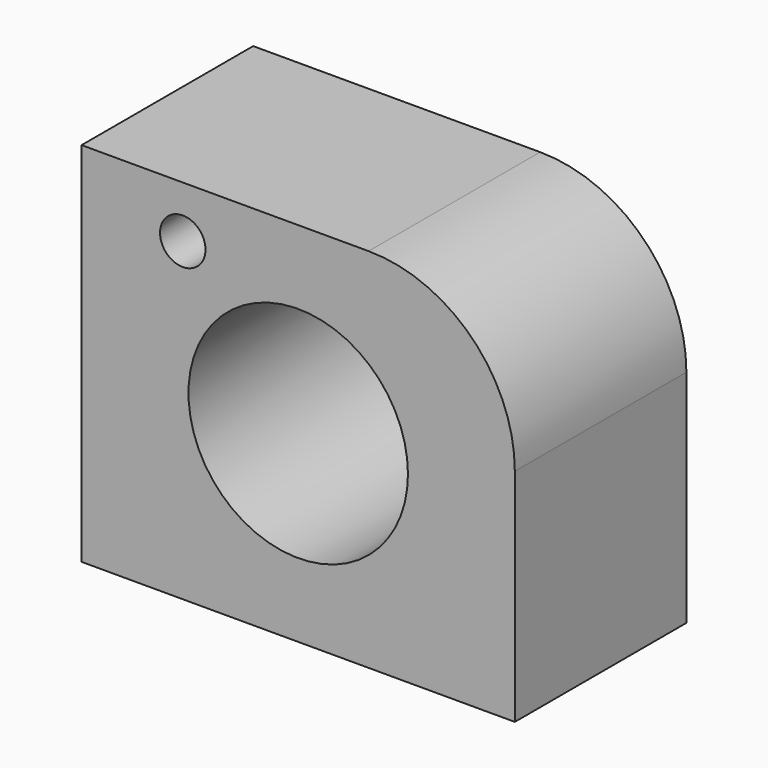
from build123d import *

# Parameters (mm, degrees)
F0_W     = 88.888892
F0_H     = 75.277782
F1_DEPTH = 44
F2_R     = 22.514909
F3_DEPTH = 44.001
F4_R     = 4.664541
F5_DEPTH = 44.001
F6_R     = 30


with BuildPart() as f1:
    # F0 (on Front) → F1 (new body)
    with BuildSketch(Plane.XZ):
        Rectangle(F0_W, F0_H)
    extrude(amount=F1_DEPTH)

    # F2 (on face) → F3 (cut, through all)
    with BuildSketch(Plane.XZ.offset(44)):
        Circle(F2_R)
    extrude(amount=-F3_DEPTH, mode=Mode.SUBTRACT)

    # F4 (on face) → F5 (cut, through all)
    with BuildSketch(Plane.XZ.offset(44)):
        with Locations((-23.689743, 27.031031)):
            Circle(F4_R)
    extrude(amount=-F5_DEPTH, mode=Mode.SUBTRACT)

    # F6
    f6_edges = [f1.edges().sort_by_distance(p)[0] for p in [
        (44.444446, -22, 37.638891),
    ]]
    fillet(f6_edges, radius=F6_R)


solid = f1.part
